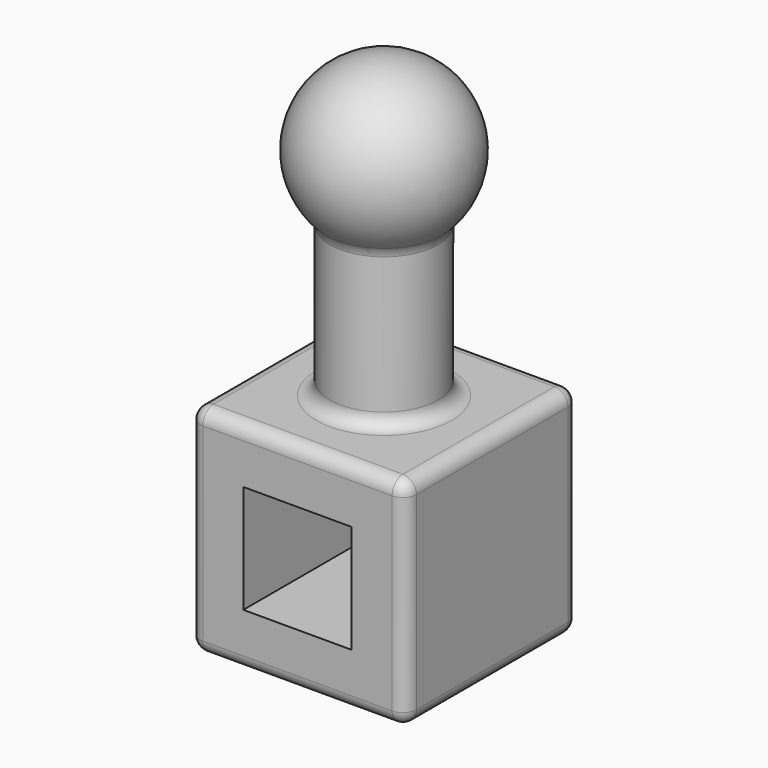
from build123d import *

# Parameters (mm, degrees)
F0_W     = 101.6
F0_H     = 101.6
F1_DEPTH = 101.6
F2_R     = 25.4
F3_DEPTH = 101.6
F6_W     = 50.8
F6_H     = 50.8
F7_DEPTH = 101.6
F8_R     = 6.35


with BuildPart() as f1:
    # F0 (on Top) → F1 (new body)
    with BuildSketch(Plane.XY):
        Rectangle(F0_W, F0_H)
    extrude(amount=F1_DEPTH)

    # F2 (on face) → F3 (join)
    with BuildSketch(Plane.XY.offset(101.6)):
        Circle(F2_R)
    extrude(amount=F3_DEPTH)

    # F4 (on face) → F5 (revolve)
    with BuildSketch(Plane.XY.offset(203.2)):
        with BuildLine():
            Line((0, 0), (0, -25.4))
            ThreePointArc((0, -25.4), (17.9605122421, -17.9605122421), (25.4, 0))
            ThreePointArc((25.4, 0), (17.9605122421, 17.9605122421), (0, 25.4))
            Line((0, 25.4), (0, 0))
        make_face()
        with BuildLine():
            Line((0, -25.4), (0, -38.1))
            ThreePointArc((0, -38.1), (38.1, 0), (0, 38.1))
            Line((0, 38.1), (0, 25.4))
            ThreePointArc((0, 25.4), (17.9605122421, 17.9605122421), (25.4, 0))
            ThreePointArc((25.4, 0), (17.9605122421, -17.9605122421), (0, -25.4))
        make_face()
    revolve(axis=Axis((0, -19.05, 203.2), (0, 1, 0)))

    # F6 (on face) → F7 (cut)
    with BuildSketch(Plane.XZ.offset(50.8)):
        with Locations((0, 50.8)):
            Rectangle(F6_W, F6_H)
    extrude(amount=-F7_DEPTH, mode=Mode.SUBTRACT)

    # F8
    f8_edges = [f1.edges().sort_by_distance(p)[0] for p in [
        (50.8, 50.8, 50.8),
        (-50.8, 50.8, 50.8),
        (50.8, -50.8, 50.8),
        (-50.8, -50.8, 50.8),
        (-50.8, 0, 0),
        (-50.8, 0, 101.6),
        (0, 50.8, 0),
        (0, 50.8, 101.6),
        (0, -50.8, 101.6),
        (0, -50.8, 0),
        (50.8, 0, 101.6),
        (50.8, 0, 0),
        (-25.4, 0, 101.6),
        (-25.4, 0, 174.801937),
    ]]
    fillet(f8_edges, radius=F8_R)


solid = f1.part
